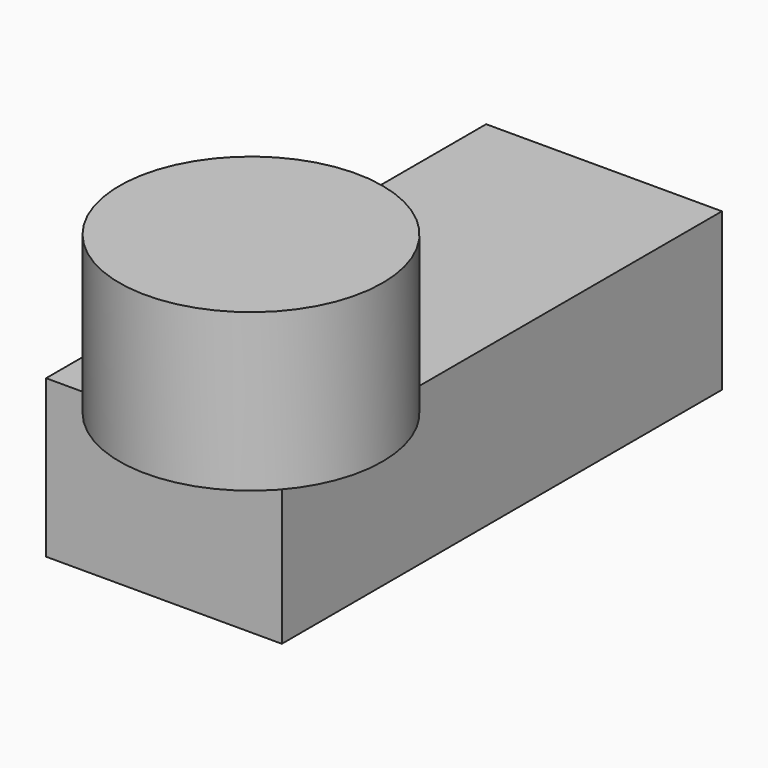
from build123d import *

# Parameters (mm, degrees)
F0_W      = 76.2
F0_H      = 177.8
F1_DEPTH  = 25.4
F1_FACE_W = 76.2
F1_FACE_H = 177.8
F2_DEPTH  = 25.4
F4_R      = 42.536427
F5_DEPTH  = 25.4
F5_FACE_R = 42.536427
F6_DEPTH  = 25.4


with BuildPart() as f1:
    # F0 (on Top) → F1 (new body)
    with BuildSketch(Plane.XY):
        with Locations((-12.912218, -4.254788)):
            Rectangle(F0_W, F0_H)
    extrude(amount=F1_DEPTH)

    # F1_face (on face) → F2 (join)
    with BuildSketch(Plane(origin=(-12.912218, -4.254788, 25.4), x_dir=(1, 0, 0), z_dir=(0, 0, 1))):
        Rectangle(F1_FACE_W, F1_FACE_H)
    extrude(amount=F2_DEPTH)

    # F4 (on face) → F5 (join)
    with BuildSketch(Plane.XY.offset(50.8)):
        with Locations((1.229391, -75.656846)):
            Circle(F4_R)
    extrude(amount=F5_DEPTH)

    # F5_face (on face) → F6 (join)
    with BuildSketch(Plane(origin=(1.229391, -75.656846, 76.2), x_dir=(1, 0, 0), z_dir=(0, 0, 1))):
        Circle(F5_FACE_R)
    extrude(amount=F6_DEPTH)


solid = f1.part
